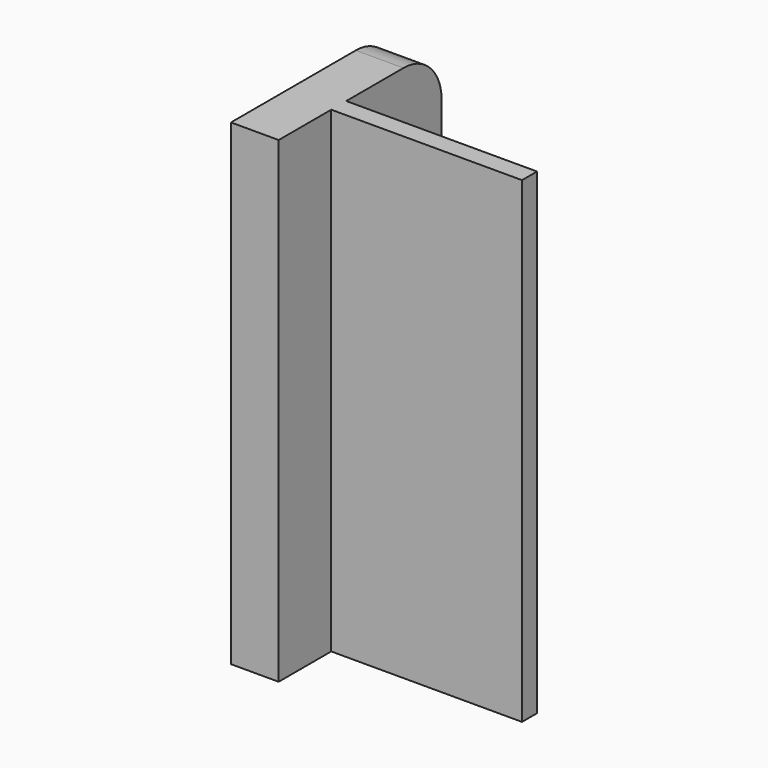
from build123d import *

# Parameters (mm, degrees)
F0_W     = 25.4
F0_H     = 50.8
F1_DEPTH = 2
F2_W     = 5.08
F2_H     = 50.8
F3_DEPTH = 7
F4_W     = 5.08
F4_H     = 50.8
F5_DEPTH = 12.7
F6_R     = 5.08


with BuildPart() as f1:
    # F0 (on Front) → F1 (new body)
    with BuildSketch(Plane.XZ):
        with Locations((12.7, 25.4)):
            Rectangle(F0_W, F0_H)
    extrude(amount=F1_DEPTH)

    # F2 (on face) → F3 (join)
    with BuildSketch(Plane.XZ.offset(2)):
        with Locations((2.54, 25.4)):
            Rectangle(F2_W, F2_H)
    extrude(amount=F3_DEPTH)

    # F4 (on face) → F5 (join)
    with BuildSketch(Plane(origin=(0, 0, 0), x_dir=(-1, 0, 0), z_dir=(0, 1, 0))):
        with Locations((-2.54, 25.4)):
            Rectangle(F4_W, F4_H)
    extrude(amount=F5_DEPTH)

    # F6
    f6_edges = [f1.edges().sort_by_distance(p)[0] for p in [
        (2.54, 12.7, 50.8),
        (2.54, 12.7, 0),
    ]]
    fillet(f6_edges, radius=F6_R)


solid = f1.part
